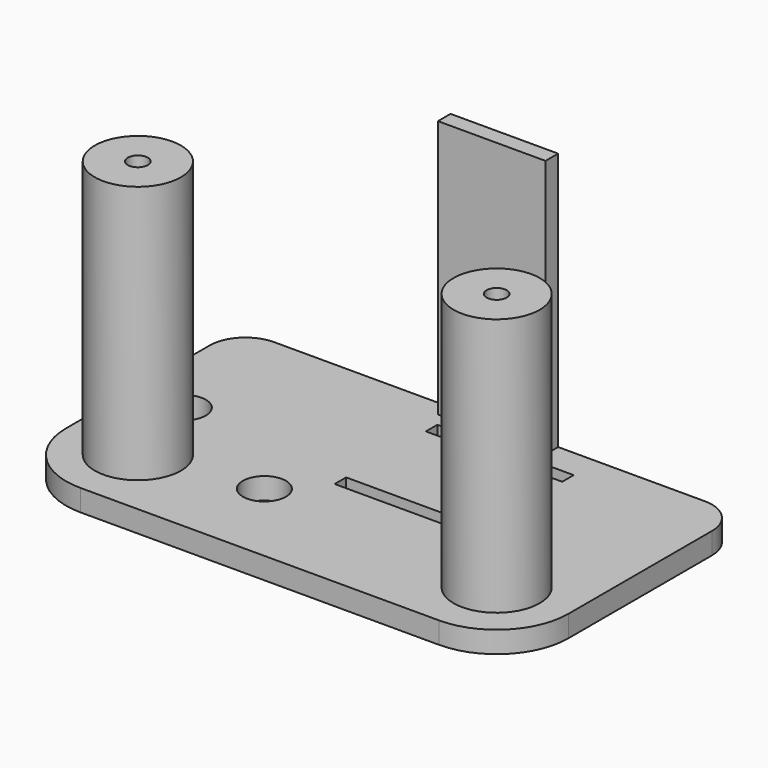
from build123d import *

# Parameters (mm, degrees)
F0_R     = 6
F0_R_2   = 1.4
F1_DEPTH = 39
F0_W     = 15
F0_H     = 2.2
F0_R_3   = 3
F0_W_2   = 19
F0_H_2   = 2
F2_DEPTH = 3


with BuildPart() as f1:
    # F0 (on Top) → F1 (new body)
    with BuildSketch(Plane.XY):
        with Locations((25, -10)):
            Circle(F0_R)
        with Locations((25, -10)):
            Circle(F0_R_2, mode=Mode.SUBTRACT)
    extrude(amount=F1_DEPTH)



with BuildPart() as f1b:
    # F0 (on Top) → F1, piece 2 (new body)
    with BuildSketch(Plane.XY):
        with Locations((-25, -10)):
            Circle(F0_R)
        with Locations((-25, -10)):
            Circle(F0_R_2, mode=Mode.SUBTRACT)
    extrude(amount=F1_DEPTH)


with BuildPart() as f1c:
    # F0 (on Top) → F1, piece 3 (new body)
    with BuildSketch(Plane.XY):
        with Locations((2.0735195652, 18.9)):
            Rectangle(F0_W, F0_H)
    extrude(amount=F1_DEPTH)


with BuildPart() as f1_1:
    add(f1.part)

    add(f1b.part)  # F2 merges F1b

    add(f1c.part)  # F2 merges F1c
    # F0 (on Top) → F2 (join)
    with BuildSketch(Plane.XY):
        with BuildLine():
            ThreePointArc((35, 15), (33.5355339059, 18.5355339059), (30, 20))
            Line((30, 20), (9.5735195652, 20))
            Line((9.5735195652, 20), (9.5735195652, 17.8))
            Line((9.5735195652, 17.8), (-5.4264804348, 17.8))
            Line((-5.4264804348, 17.8), (-5.4264804348, 20))
            Line((-5.4264804348, 20), (-30, 20))
            ThreePointArc((-30, 20), (-33.5355339059, 18.5355339059), (-35, 15))
            Line((-35, 15), (-35, -10))
            ThreePointArc((-35, -10), (-32.0710678119, -17.0710678119), (-25, -20))
            Line((-25, -20), (25, -20))
            ThreePointArc((25, -20), (32.0710678119, -17.0710678119), (35, -10))
            Line((35, -10), (35, 15))
        make_face()
        with Locations((-25, -10)):
            Circle(F0_R, mode=Mode.SUBTRACT)
        with Locations((-9.2434035614, -7.6480722055)):
            Circle(F0_R_3, mode=Mode.SUBTRACT)
        with Locations((5.526580222, -1)):
            Rectangle(F0_W_2, F0_H_2, mode=Mode.SUBTRACT)
        with Locations((25, -10)):
            Circle(F0_R, mode=Mode.SUBTRACT)
        with Locations((-28, 1.8378978129)):
            Circle(F0_R_3, mode=Mode.SUBTRACT)
        with Locations((5.526580222, 14.8842966408)):
            Rectangle(F0_W_2, F0_H_2, mode=Mode.SUBTRACT)
        with Locations((2.0735195652, 18.9)):
            Rectangle(F0_W, F0_H)
    extrude(amount=F2_DEPTH)


solid = f1_1.part
